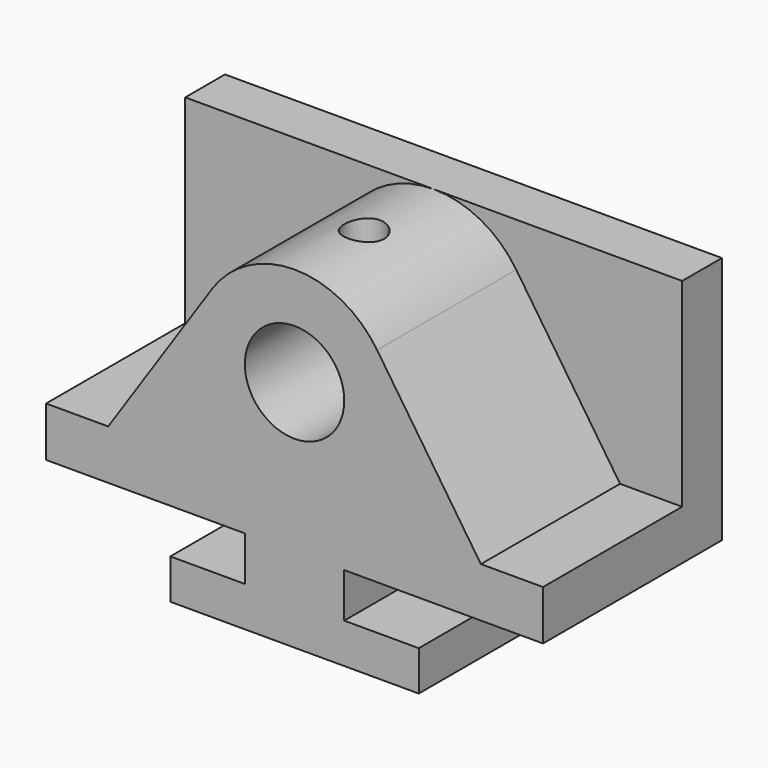
from build123d import *

# Parameters (mm, degrees)
F0_W     = 127
F0_H     = 63.5
F1_DEPTH = 12.7
F2_W     = 127
F2_H     = 12.7
F3_DEPTH = 44.45
F5_DEPTH = 57.15
F6_R     = 12.7
F7_DEPTH = 44.45
F8_R     = 5.08
F9_DEPTH = 25.4


with BuildPart() as f1:
    # F0 (on Front) → F1 (new body)
    with BuildSketch(Plane.XZ):
        with Locations((63.5, 31.75)):
            Rectangle(F0_W, F0_H)
    extrude(amount=F1_DEPTH)

    # F2 (on face) → F3 (join)
    with BuildSketch(Plane.XZ.offset(12.7)):
        with Locations((63.5, 6.35)):
            Rectangle(F2_W, F2_H)
    extrude(amount=F3_DEPTH)

    # F4 (on face) → F5 (join)
    with BuildSketch(Plane.XZ.offset(57.15)):
        Polygon((31.75, -21.59), (63.5, -21.59), (95.25, -21.59), (95.25, -11.3792), (76.2, -11.3792), (76.2, 0), (63.5, 0), (50.8, 0), (50.8, -11.3792), (31.75, -11.3792), align=None)
    extrude(amount=-F5_DEPTH)

    # F6 (on face) → F7 (join)
    with BuildSketch(Plane.XZ.offset(57.15)):
        with BuildLine():
            Line((42.406574, 52.250173), (15.875, 12.7))
            Line((15.875, 12.7), (111.125, 12.7))
            Line((111.125, 12.7), (84.593426, 52.250173))
            ThreePointArc((84.593426, 52.250173), (63.5, 63.5), (42.406574, 52.250173))
        make_face()
        with Locations((63.5, 38.1)):
            Circle(F6_R, mode=Mode.SUBTRACT)
    extrude(amount=-F7_DEPTH)

    # F8 (on face) → F9 (cut)
    with BuildSketch(Plane.XY.offset(63.5)):
        with Locations((63.5, -34.925)):
            Circle(F8_R)
    extrude(amount=-F9_DEPTH, mode=Mode.SUBTRACT)


solid = f1.part
